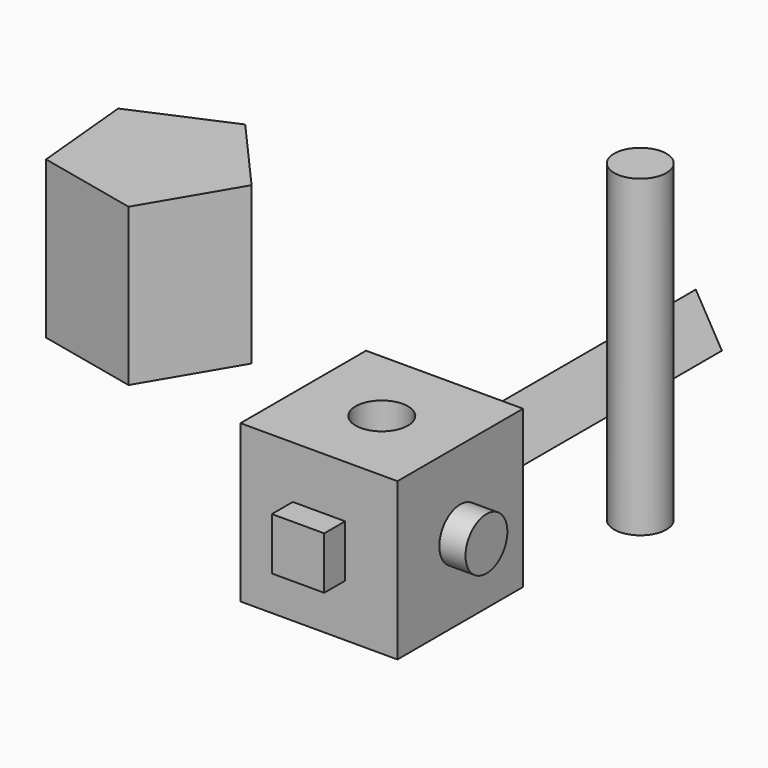
from build123d import *

# Parameters (mm, degrees)
F0_W      = 76.2
F0_H      = 76.2
F1_DEPTH  = 76.2
F3_D      = 25.4
F4_W      = 25.4
F4_H      = 25.4
F5_DEPTH  = 12.7
F6_R      = 12.7
F7_DEPTH  = 12.7
F9_DEPTH  = 152.4
F10_R     = 12.7
F11_DEPTH = 152.4
F13_DEPTH = 76.2


with BuildPart() as f1:
    # F0 (on Front) → F1 (new body)
    with BuildSketch(Plane.XZ):
        with Locations((-0.785079, 13.278581)):
            Rectangle(F0_W, F0_H)
    extrude(amount=F1_DEPTH)

    # F3 (through all)
    with Locations(Plane.XY.offset(51.378581)):
        with Locations((-0.785079, -38.1)):
            Hole(F3_D / 2)

    # F4 (on face) → F5 (join)
    with BuildSketch(Plane.XZ.offset(76.2)):
        with Locations((-0.785079, 13.278581)):
            Rectangle(F4_W, F4_H)
    extrude(amount=F5_DEPTH)

    # F6 (on face) → F7 (join)
    with BuildSketch(Plane.YZ.offset(37.314921)):
        with Locations((-38.1, 13.278581)):
            Circle(F6_R)
    extrude(amount=F7_DEPTH)

    # F8 (on face) → F9 (join)
    with BuildSketch(Plane(origin=(0, 0, 0), x_dir=(-1, 0, 0), z_dir=(0, 1, 0))):
        Polygon((0.785079, 27.943278), (-11.914921, 5.946233), (13.485079, 5.946233), align=None)
    extrude(amount=F9_DEPTH)


with BuildPart() as f11:
    # F10 (on Top) → F11 (new body)
    with BuildSketch(Plane.XY):
        with Locations((67.399062, 33.521928)):
            Circle(F10_R)
    extrude(amount=F11_DEPTH)


with BuildPart() as f13:
    # F12 (on Top) → F13 (new body)
    with BuildSketch(Plane.XY):
        Polygon((-153.219321, -1.220047), (-127.844832, 41.732866), (-160.854331, 79.138618), (-206.629812, 59.303733), (-201.911116, 9.639346), align=None)
    extrude(amount=F13_DEPTH)


solid = Compound([f1.part, f11.part, f13.part])
